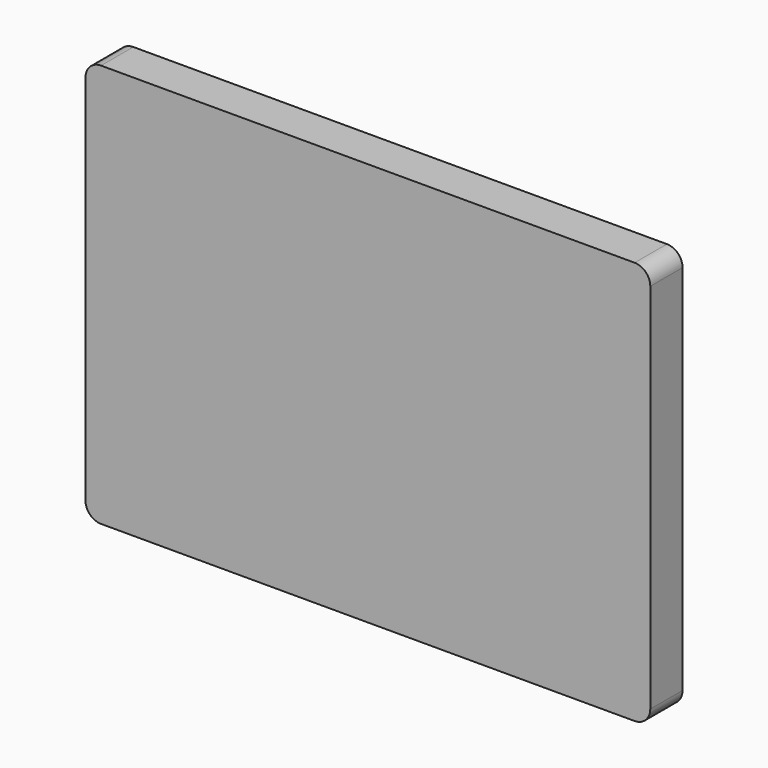
from build123d import *

# Parameters (mm, degrees)
F0_W     = 88.9
F0_H     = 63.5
F1_DEPTH = 6.35
F2_R     = 2.452841
F3_R     = 2.4638


with BuildPart() as f1:
    # F0 (on Front) → F1 (new body)
    with BuildSketch(Plane.XZ):
        with Locations((1.678722, 5.454515)):
            Rectangle(F0_W, F0_H)
    extrude(amount=F1_DEPTH)

    # F2
    f2_edges = [f1.edges().sort_by_distance(p)[0] for p in [
        (-42.771278, -3.175, 37.204515),
    ]]
    fillet(f2_edges, radius=F2_R)

    # F3
    f3_edges = [f1.edges().sort_by_distance(p)[0] for p in [
        (46.128722, -3.175, 37.204515),
        (-42.771278, -3.175, -26.295485),
        (46.128722, -3.175, -26.295485),
    ]]
    fillet(f3_edges, radius=F3_R)


solid = f1.part
